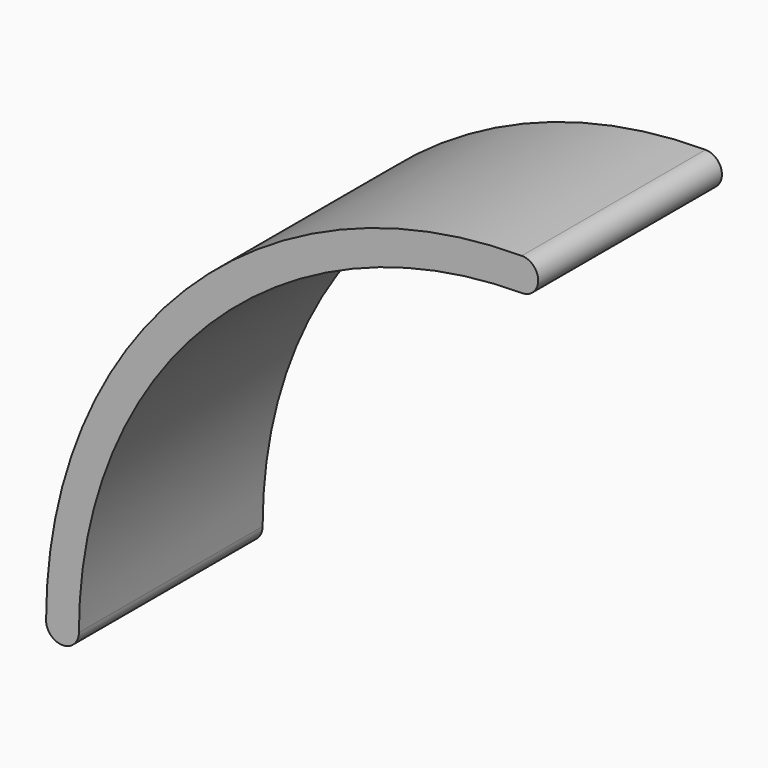
from build123d import *

# Parameters (mm, degrees)
F1_DEPTH = 7


with BuildPart() as f1:
    # F0 (on Front) → F1 (new body)
    with BuildSketch(Plane.XZ):
        with BuildLine():
            ThreePointArc((-13.5, 0), (-9.545942, 9.545942), (0, 13.5))
            ThreePointArc((0, 13.5), (0.5, 14), (0, 14.5))
            ThreePointArc((0, 14.5), (-10.253048, 10.253048), (-14.5, 0))
            ThreePointArc((-14.5, 0), (-14, -0.5), (-13.5, 0))
        make_face()
    extrude(amount=F1_DEPTH)


solid = f1.part
